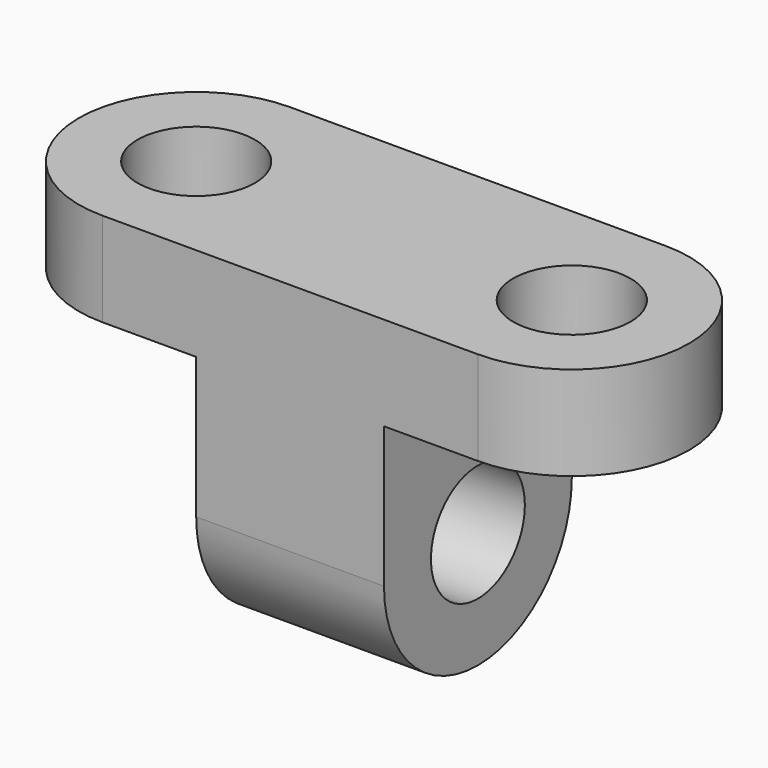
from build123d import *

# Parameters (mm, degrees)
F0_R     = 12.5
F0_W     = 40
F0_H     = 50
F1_DEPTH = 20
F2_DEPTH = 30
F3_R     = 12.5
F4_DEPTH = 40
F5_DEPTH = 85.001001


with BuildPart() as f1:
    # F0 (on Top) → F1 (new body)
    with BuildSketch(Plane.XY):
        with BuildLine():
            Line((59.999999, 50), (59.999999, 0))
            Line((59.999999, 0), (80, 0))
            ThreePointArc((80, 0), (105, 25), (80, 50))
            Line((80, 50), (59.999999, 50))
        make_face()
        with Locations((80, 25)):
            Circle(F0_R, mode=Mode.SUBTRACT)
        with BuildLine():
            ThreePointArc((-2e-06, 50), (-25.000002, 24.999999), (0, 0))
            Line((0, 0), (19.999999, 0))
            Line((19.999999, 0), (19.999999, 50))
            Line((19.999999, 50), (-2e-06, 50))
        make_face()
        with Locations((-2e-06, 25)):
            Circle(F0_R, mode=Mode.SUBTRACT)
        with Locations((39.999999, 25)):
            Rectangle(F0_W, F0_H)
    extrude(amount=F1_DEPTH)

    # F0 (on Top) → F2 (join)
    with BuildSketch(Plane.XY):
        with Locations((39.999999, 25)):
            Rectangle(F0_W, F0_H)
    extrude(amount=-F2_DEPTH)

    # F3 (on face) → F4 (join)
    with BuildSketch(Plane.YZ.offset(59.999999)):
        with Locations((25, -30)):
            Circle(F3_R)
        with BuildLine():
            Line((12.5, -30), (0, -30))
            ThreePointArc((0, -30), (25, -55), (50, -30))
            Line((50, -30), (37.5, -30))
            ThreePointArc((37.5, -30), (25, -42.5), (12.5, -30))
        make_face()
    extrude(amount=-F4_DEPTH)

    # F3 (on face) → F5 (cut, through all)
    with BuildSketch(Plane.YZ.offset(59.999999)):
        with Locations((25, -30)):
            Circle(F3_R)
    extrude(amount=-F5_DEPTH, mode=Mode.SUBTRACT)


solid = f1.part
